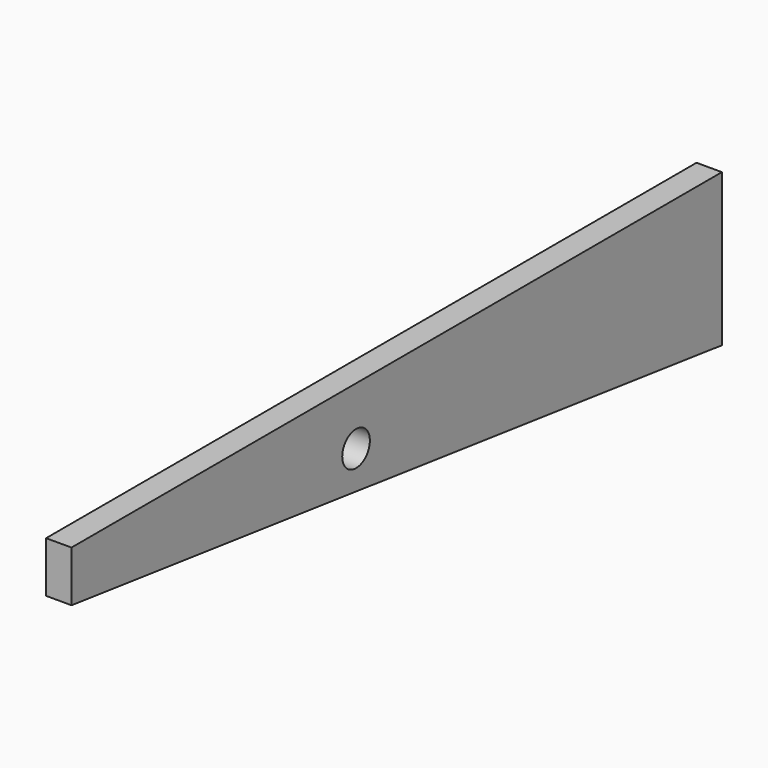
from build123d import *

# Parameters (mm, degrees)
F1_DEPTH = 1.5875
F3_D     = 4.318
F3_DEPTH = 762
F3_TIP   = 1.2972580765


with BuildPart() as f1:
    # F0 (on Right) → F1 (new body, symmetric)
    with BuildSketch(Plane.YZ):
        Polygon((-101.6, 12.7), (0, 0), (0, 19.05), (-101.6, 19.05), align=None)
    extrude(amount=F1_DEPTH, both=True)

    # F3
    with Locations(Plane.YZ.offset(1.5875)):
        with Locations((-57.15, 11.86942)):
            Hole(F3_D / 2, depth=F3_DEPTH)
            with Locations((0, 0, -(F3_DEPTH + F3_TIP / 2))):  # 118° drill point
                Cone(0, F3_D / 2, F3_TIP, mode=Mode.SUBTRACT)


solid = f1.part
